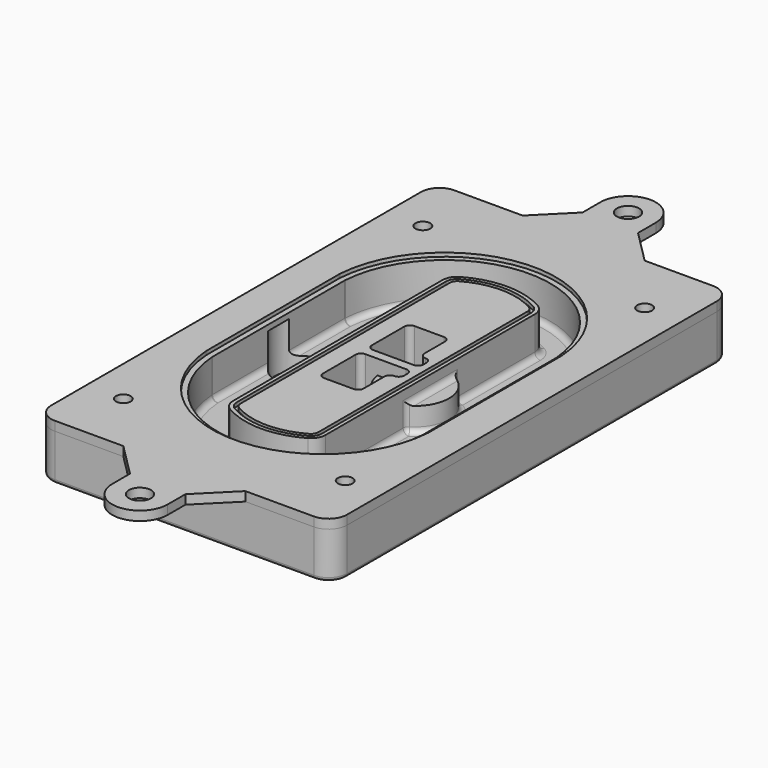
from build123d import *

# Parameters (mm, degrees)
F0_R      = 4
F1_DEPTH  = 25
F2_DEPTH  = 3
F3_DEPTH  = 18
F5_DEPTH  = 21
F6_DEPTH  = 2
F8_DEPTH  = 20
F9_DEPTH  = 16
F10_DEPTH = 25
F7_R      = 6
F7_R_2    = 4
F11_DEPTH = 6
F13_DEPTH = 9
F14_R     = 3
F15_R     = 2
F16_R     = 4
F16_R_2   = 6
F17_DEPTH = 5


with BuildPart() as f1:
    # F0 (on Top) → F1 (new body)
    with BuildSketch(Plane.XY):
        with BuildLine():
            ThreePointArc((-80, -125), (-77.0710678119, -132.0710678119), (-70, -135))
            Line((-70, -135), (70, -135))
            ThreePointArc((70, -135), (77.0710678119, -132.0710678119), (80, -125))
            Line((80, -125), (80, 125))
            ThreePointArc((80, 125), (77.0710678119, 132.0710678119), (70, 135))
            Line((70, 135), (-70, 135))
            ThreePointArc((-70, 135), (-77.0710678119, 132.0710678119), (-80, 125))
            Line((-80, 125), (-80, -125))
        make_face()
        with Locations((-60, -101.25)):
            Circle(F0_R, mode=Mode.SUBTRACT)
        with Locations((60, -101.25)):
            Circle(F0_R, mode=Mode.SUBTRACT)
        with Locations((-60, 101.25)):
            Circle(F0_R, mode=Mode.SUBTRACT)
        with BuildLine():
            ThreePointArc((-64, 44.6627429245), (-63.991269098, 45.1571001106), (-63.9650872818, 45.650840699))
            ThreePointArc((-63.9650872818, 45.650840699), (0, 105.25), (63.9650872818, 45.650840699))
            ThreePointArc((63.9650872818, 45.650840699), (63.991269098, 45.1571001106), (64, 44.6627429245))
            Line((64, 44.6627429245), (64, -44.6627429245))
            ThreePointArc((64, -44.6627429245), (63.991269098, -45.1571001106), (63.9650872818, -45.650840699))
            ThreePointArc((63.9650872818, -45.650840699), (0, -105.25), (-63.9650872818, -45.650840699))
            ThreePointArc((-63.9650872818, -45.650840699), (-63.991269098, -45.1571001106), (-64, -44.6627429245))
            Line((-64, -44.6627429245), (-64, 44.6627429245))
        make_face(mode=Mode.SUBTRACT)
        with Locations((60, 101.25)):
            Circle(F0_R, mode=Mode.SUBTRACT)
        with BuildLine():
            ThreePointArc((63.9650872818, 45.650840699), (0, 105.25), (-63.9650872818, 45.650840699))
            ThreePointArc((-63.9650872818, 45.650840699), (-63.991269098, 45.1571001106), (-64, 44.6627429245))
            Line((-64, 44.6627429245), (-64, -44.6627429245))
            ThreePointArc((-64, -44.6627429245), (-63.991269098, -45.1571001106), (-63.9650872818, -45.650840699))
            ThreePointArc((-63.9650872818, -45.650840699), (0, -105.25), (63.9650872818, -45.650840699))
            ThreePointArc((63.9650872818, -45.650840699), (63.991269098, -45.1571001106), (64, -44.6627429245))
            Line((64, -44.6627429245), (64, 44.6627429245))
            ThreePointArc((64, 44.6627429245), (63.991269098, 45.1571001106), (63.9650872818, 45.650840699))
        make_face()
        with BuildLine():
            Line((-60, -44.6627429245), (-60, 44.6627429245))
            ThreePointArc((-60, 44.6627429245), (-59.9937636414, 45.0158552003), (-59.9750623441, 45.3685270491))
            ThreePointArc((-59.9750623441, 45.3685270491), (0, 101.25), (59.9750623441, 45.3685270491))
            ThreePointArc((59.9750623441, 45.3685270491), (59.9937636414, 45.0158552003), (60, 44.6627429245))
            Line((60, 44.6627429245), (60, -44.6627429245))
            ThreePointArc((60, -44.6627429245), (59.9937636414, -45.0158552003), (59.9750623441, -45.3685270491))
            ThreePointArc((59.9750623441, -45.3685270491), (0, -101.25), (-59.9750623441, -45.3685270491))
            ThreePointArc((-59.9750623441, -45.3685270491), (-59.9937636414, -45.0158552003), (-60, -44.6627429245))
        make_face(mode=Mode.SUBTRACT)
        with BuildLine():
            ThreePointArc((-59.9750623441, 45.3685270491), (-59.9937636414, 45.0158552003), (-60, 44.6627429245))
            Line((-60, 44.6627429245), (-60, -44.6627429245))
            ThreePointArc((-60, -44.6627429245), (-59.9937636414, -45.0158552003), (-59.9750623441, -45.3685270491))
            ThreePointArc((-59.9750623441, -45.3685270491), (0, -101.25), (59.9750623441, -45.3685270491))
            ThreePointArc((59.9750623441, -45.3685270491), (59.9937636414, -45.0158552003), (60, -44.6627429245))
            Line((60, -44.6627429245), (60, 44.6627429245))
            ThreePointArc((60, 44.6627429245), (59.9937636414, 45.0158552003), (59.9750623441, 45.3685270491))
            ThreePointArc((59.9750623441, 45.3685270491), (0, 101.25), (-59.9750623441, 45.3685270491))
        make_face()
        with BuildLine():
            ThreePointArc((56.9825436409, 45.1567918117), (56.995634549, 44.9099215176), (57, 44.6627429245))
            Line((57, 44.6627429245), (57, -44.6627429245))
            ThreePointArc((57, -44.6627429245), (56.995634549, -44.9099215176), (56.9825436409, -45.1567918117))
            ThreePointArc((56.9825436409, -45.1567918117), (0, -98.25), (-56.9825436409, -45.1567918117))
            ThreePointArc((-56.9825436409, -45.1567918117), (-56.995634549, -44.9099215176), (-57, -44.6627429245))
            Line((-57, -44.6627429245), (-57, 44.6627429245))
            ThreePointArc((-57, 44.6627429245), (-56.995634549, 44.9099215176), (-56.9825436409, 45.1567918117))
            ThreePointArc((-56.9825436409, 45.1567918117), (0, 98.25), (56.9825436409, 45.1567918117))
        make_face(mode=Mode.SUBTRACT)
        with BuildLine():
            Line((57, -44.6627429245), (57, 44.6627429245))
            ThreePointArc((57, 44.6627429245), (56.995634549, 44.9099215176), (56.9825436409, 45.1567918117))
            ThreePointArc((56.9825436409, 45.1567918117), (0, 98.25), (-56.9825436409, 45.1567918117))
            ThreePointArc((-56.9825436409, 45.1567918117), (-56.995634549, 44.9099215176), (-57, 44.6627429245))
            Line((-57, 44.6627429245), (-57, -44.6627429245))
            ThreePointArc((-57, -44.6627429245), (-56.995634549, -44.9099215176), (-56.9825436409, -45.1567918117))
            ThreePointArc((-56.9825436409, -45.1567918117), (0, -98.25), (56.9825436409, -45.1567918117))
            ThreePointArc((56.9825436409, -45.1567918117), (56.995634549, -44.9099215176), (57, -44.6627429245))
        make_face()
    extrude(amount=-F1_DEPTH)

    # F0 (on Top) → F2 (join)
    with BuildSketch(Plane.XY):
        with BuildLine():
            ThreePointArc((-59.9750623441, 45.3685270491), (-59.9937636414, 45.0158552003), (-60, 44.6627429245))
            Line((-60, 44.6627429245), (-60, -44.6627429245))
            ThreePointArc((-60, -44.6627429245), (-59.9937636414, -45.0158552003), (-59.9750623441, -45.3685270491))
            ThreePointArc((-59.9750623441, -45.3685270491), (0, -101.25), (59.9750623441, -45.3685270491))
            ThreePointArc((59.9750623441, -45.3685270491), (59.9937636414, -45.0158552003), (60, -44.6627429245))
            Line((60, -44.6627429245), (60, 44.6627429245))
            ThreePointArc((60, 44.6627429245), (59.9937636414, 45.0158552003), (59.9750623441, 45.3685270491))
            ThreePointArc((59.9750623441, 45.3685270491), (0, 101.25), (-59.9750623441, 45.3685270491))
        make_face()
        with BuildLine():
            ThreePointArc((56.9825436409, 45.1567918117), (56.995634549, 44.9099215176), (57, 44.6627429245))
            Line((57, 44.6627429245), (57, -44.6627429245))
            ThreePointArc((57, -44.6627429245), (56.995634549, -44.9099215176), (56.9825436409, -45.1567918117))
            ThreePointArc((56.9825436409, -45.1567918117), (0, -98.25), (-56.9825436409, -45.1567918117))
            ThreePointArc((-56.9825436409, -45.1567918117), (-56.995634549, -44.9099215176), (-57, -44.6627429245))
            Line((-57, -44.6627429245), (-57, 44.6627429245))
            ThreePointArc((-57, 44.6627429245), (-56.995634549, 44.9099215176), (-56.9825436409, 45.1567918117))
            ThreePointArc((-56.9825436409, 45.1567918117), (0, 98.25), (56.9825436409, 45.1567918117))
        make_face(mode=Mode.SUBTRACT)
    extrude(amount=F2_DEPTH)

    # F0 (on Top) → F3 (cut)
    with BuildSketch(Plane.XY):
        with BuildLine():
            Line((57, -44.6627429245), (57, 44.6627429245))
            ThreePointArc((57, 44.6627429245), (56.995634549, 44.9099215176), (56.9825436409, 45.1567918117))
            ThreePointArc((56.9825436409, 45.1567918117), (0, 98.25), (-56.9825436409, 45.1567918117))
            ThreePointArc((-56.9825436409, 45.1567918117), (-56.995634549, 44.9099215176), (-57, 44.6627429245))
            Line((-57, 44.6627429245), (-57, -44.6627429245))
            ThreePointArc((-57, -44.6627429245), (-56.995634549, -44.9099215176), (-56.9825436409, -45.1567918117))
            ThreePointArc((-56.9825436409, -45.1567918117), (0, -98.25), (56.9825436409, -45.1567918117))
            ThreePointArc((56.9825436409, -45.1567918117), (56.995634549, -44.9099215176), (57, -44.6627429245))
        make_face()
    extrude(amount=-F3_DEPTH, mode=Mode.SUBTRACT)

    # F4 (on face) → F5 (join, through all)
    with BuildSketch(Plane.XY.offset(3)):
        with BuildLine():
            ThreePointArc((-25, -70.7141132851), (-23.9239722661, -74.7214325959), (-20.9853479853, -77.6507552274))
            ThreePointArc((-20.9853479853, -77.6507552274), (0, -83.25), (20.9853479853, -77.6507552274))
            ThreePointArc((20.9853479853, -77.6507552274), (23.9239722661, -74.7214325959), (25, -70.7141132851))
            Line((25, -70.7141132851), (25, 70.7141132851))
            ThreePointArc((25, 70.7141132851), (23.9239722661, 74.7214325959), (20.9853479853, 77.6507552274))
            ThreePointArc((20.9853479853, 77.6507552274), (0, 83.25), (-20.9853479853, 77.6507552274))
            ThreePointArc((-20.9853479853, 77.6507552274), (-23.9239722661, 74.7214325959), (-25, 70.7141132851))
            Line((-25, 70.7141132851), (-25, -70.7141132851))
        make_face()
        with BuildLine():
            ThreePointArc((19.989010989, 75.9165947419), (22.1929791996, 73.7196027682), (23, 70.7141132851))
            Line((23, 70.7141132851), (23, -70.7141132851))
            ThreePointArc((23, -70.7141132851), (22.1929791996, -73.7196027682), (19.989010989, -75.9165947419))
            ThreePointArc((19.989010989, -75.9165947419), (0, -81.25), (-19.989010989, -75.9165947419))
            ThreePointArc((-19.989010989, -75.9165947419), (-22.1929791996, -73.7196027682), (-23, -70.7141132851))
            Line((-23, -70.7141132851), (-23, 70.7141132851))
            ThreePointArc((-23, 70.7141132851), (-22.1929791996, 73.7196027682), (-19.989010989, 75.9165947419))
            ThreePointArc((-19.989010989, 75.9165947419), (0, 81.25), (19.989010989, 75.9165947419))
        make_face(mode=Mode.SUBTRACT)
        with BuildLine():
            Line((23, -70.7141132851), (23, 70.7141132851))
            ThreePointArc((23, 70.7141132851), (22.1929791996, 73.7196027682), (19.989010989, 75.9165947419))
            ThreePointArc((19.989010989, 75.9165947419), (0, 81.25), (-19.989010989, 75.9165947419))
            ThreePointArc((-19.989010989, 75.9165947419), (-22.1929791996, 73.7196027682), (-23, 70.7141132851))
            Line((-23, 70.7141132851), (-23, -70.7141132851))
            ThreePointArc((-23, -70.7141132851), (-22.1929791996, -73.7196027682), (-19.989010989, -75.9165947419))
            ThreePointArc((-19.989010989, -75.9165947419), (0, -81.25), (19.989010989, -75.9165947419))
            ThreePointArc((19.989010989, -75.9165947419), (22.1929791996, -73.7196027682), (23, -70.7141132851))
        make_face()
        with BuildLine():
            ThreePointArc((18.9926739927, 74.1824342563), (20.461986133, 72.7177729405), (21, 70.7141132851))
            Line((21, 70.7141132851), (21, -70.7141132851))
            ThreePointArc((21, -70.7141132851), (20.461986133, -72.7177729405), (18.9926739927, -74.1824342563))
            ThreePointArc((18.9926739927, -74.1824342563), (0, -79.25), (-18.9926739927, -74.1824342563))
            ThreePointArc((-18.9926739927, -74.1824342563), (-20.461986133, -72.7177729405), (-21, -70.7141132851))
            Line((-21, -70.7141132851), (-21, 70.7141132851))
            ThreePointArc((-21, 70.7141132851), (-20.461986133, 72.7177729405), (-18.9926739927, 74.1824342563))
            ThreePointArc((-18.9926739927, 74.1824342563), (0, 79.25), (18.9926739927, 74.1824342563))
        make_face(mode=Mode.SUBTRACT)
        with BuildLine():
            Line((21, -70.7141132851), (21, 70.7141132851))
            ThreePointArc((21, 70.7141132851), (20.461986133, 72.7177729405), (18.9926739927, 74.1824342563))
            ThreePointArc((18.9926739927, 74.1824342563), (0, 79.25), (-18.9926739927, 74.1824342563))
            ThreePointArc((-18.9926739927, 74.1824342563), (-20.461986133, 72.7177729405), (-21, 70.7141132851))
            Line((-21, 70.7141132851), (-21, -70.7141132851))
            ThreePointArc((-21, -70.7141132851), (-20.461986133, -72.7177729405), (-18.9926739927, -74.1824342563))
            ThreePointArc((-18.9926739927, -74.1824342563), (0, -79.25), (18.9926739927, -74.1824342563))
            ThreePointArc((18.9926739927, -74.1824342563), (20.461986133, -72.7177729405), (21, -70.7141132851))
        make_face()
        with BuildLine():
            Line((-8, -2.5), (14, -2.5))
            ThreePointArc((14, -2.5), (16.1213203436, -3.3786796564), (17, -5.5))
            Line((17, -5.5), (17, -7.5))
            ThreePointArc((17, -7.5), (16.1213203436, -9.6213203436), (14, -10.5))
            ThreePointArc((14, -10.5), (11.8786796564, -11.3786796564), (11, -13.5))
            Line((11, -13.5), (11, -27.5))
            ThreePointArc((11, -27.5), (10.1213203436, -29.6213203436), (8, -30.5))
            Line((8, -30.5), (-8, -30.5))
            ThreePointArc((-8, -30.5), (-10.1213203436, -29.6213203436), (-11, -27.5))
            Line((-11, -27.5), (-11, -5.5))
            ThreePointArc((-11, -5.5), (-10.1213203436, -3.3786796564), (-8, -2.5))
        make_face(mode=Mode.SUBTRACT)
        with BuildLine():
            ThreePointArc((-8, 2.5), (-10.1213203436, 3.3786796564), (-11, 5.5))
            Line((-11, 5.5), (-11, 27.5))
            ThreePointArc((-11, 27.5), (-10.1213203436, 29.6213203436), (-8, 30.5))
            Line((-8, 30.5), (8, 30.5))
            ThreePointArc((8, 30.5), (10.1213203436, 29.6213203436), (11, 27.5))
            Line((11, 27.5), (11, 13.5))
            ThreePointArc((11, 13.5), (11.8786796564, 11.3786796564), (14, 10.5))
            ThreePointArc((14, 10.5), (16.1213203436, 9.6213203436), (17, 7.5))
            Line((17, 7.5), (17, 5.5))
            ThreePointArc((17, 5.5), (16.1213203436, 3.3786796564), (14, 2.5))
            Line((14, 2.5), (-8, 2.5))
        make_face(mode=Mode.SUBTRACT)
    extrude(amount=-F5_DEPTH)

    # F4 (on face) → F6 (cut)
    with BuildSketch(Plane.XY.offset(3)):
        with BuildLine():
            Line((23, -70.7141132851), (23, 70.7141132851))
            ThreePointArc((23, 70.7141132851), (22.1929791996, 73.7196027682), (19.989010989, 75.9165947419))
            ThreePointArc((19.989010989, 75.9165947419), (0, 81.25), (-19.989010989, 75.9165947419))
            ThreePointArc((-19.989010989, 75.9165947419), (-22.1929791996, 73.7196027682), (-23, 70.7141132851))
            Line((-23, 70.7141132851), (-23, -70.7141132851))
            ThreePointArc((-23, -70.7141132851), (-22.1929791996, -73.7196027682), (-19.989010989, -75.9165947419))
            ThreePointArc((-19.989010989, -75.9165947419), (0, -81.25), (19.989010989, -75.9165947419))
            ThreePointArc((19.989010989, -75.9165947419), (22.1929791996, -73.7196027682), (23, -70.7141132851))
        make_face()
        with BuildLine():
            ThreePointArc((18.9926739927, 74.1824342563), (20.461986133, 72.7177729405), (21, 70.7141132851))
            Line((21, 70.7141132851), (21, -70.7141132851))
            ThreePointArc((21, -70.7141132851), (20.461986133, -72.7177729405), (18.9926739927, -74.1824342563))
            ThreePointArc((18.9926739927, -74.1824342563), (0, -79.25), (-18.9926739927, -74.1824342563))
            ThreePointArc((-18.9926739927, -74.1824342563), (-20.461986133, -72.7177729405), (-21, -70.7141132851))
            Line((-21, -70.7141132851), (-21, 70.7141132851))
            ThreePointArc((-21, 70.7141132851), (-20.461986133, 72.7177729405), (-18.9926739927, 74.1824342563))
            ThreePointArc((-18.9926739927, 74.1824342563), (0, 79.25), (18.9926739927, 74.1824342563))
        make_face(mode=Mode.SUBTRACT)
    extrude(amount=-F6_DEPTH, mode=Mode.SUBTRACT)

    # F7 (on face) → F8 (join)
    with BuildSketch(Plane(origin=(0, 0, -25), x_dir=(1, 0, 0), z_dir=(0, 0, -1))):
        with BuildLine():
            ThreePointArc((3.28842436, 0), (16.7567035675, 13.4682792075), (30.224982775, 0))
            Line((30.224982775, 0), (35.224982775, 0))
            ThreePointArc((35.224982775, 0), (16.7567035675, 18.4682792075), (-1.71157564, 0))
            Line((-1.71157564, 0), (3.28842436, 0))
        make_face()
        with BuildLine():
            Line((3.28842436, 0), (30.224982775, 0))
            ThreePointArc((30.224982775, 0), (16.7567035675, 13.4682792075), (3.28842436, 0))
        make_face()
        with BuildLine():
            ThreePointArc((3.28842436, 0), (16.7567035675, -13.4682792075), (30.224982775, 0))
            Line((30.224982775, 0), (3.28842436, 0))
        make_face()
        with BuildLine():
            Line((35.224982775, 0), (30.224982775, 0))
            ThreePointArc((30.224982775, 0), (16.7567035675, -13.4682792075), (3.28842436, 0))
            Line((3.28842436, 0), (-1.71157564, 0))
            ThreePointArc((-1.71157564, 0), (16.7567035675, -18.4682792075), (35.224982775, 0))
        make_face()
    extrude(amount=-F8_DEPTH)

    # F7 (on face) → F9 (cut)
    with BuildSketch(Plane(origin=(0, 0, -25), x_dir=(1, 0, 0), z_dir=(0, 0, -1))):
        with BuildLine():
            Line((3.28842436, 0), (30.224982775, 0))
            ThreePointArc((30.224982775, 0), (16.7567035675, 13.4682792075), (3.28842436, 0))
        make_face()
        with BuildLine():
            ThreePointArc((3.28842436, 0), (16.7567035675, -13.4682792075), (30.224982775, 0))
            Line((30.224982775, 0), (3.28842436, 0))
        make_face()
    extrude(amount=-F9_DEPTH, mode=Mode.SUBTRACT)

    # F7 (on face) → F10 (cut)
    with BuildSketch(Plane(origin=(0, 0, -25), x_dir=(1, 0, 0), z_dir=(0, 0, -1))):
        with BuildLine():
            Line((-59.0318229325, 0), (-32.0952645175, 0))
            ThreePointArc((-32.0952645175, 0), (-45.563543725, 13.4682792075), (-59.0318229325, 0))
        make_face()
        with BuildLine():
            ThreePointArc((-59.0318229325, 0), (-45.563543725, -13.4682792075), (-32.0952645175, 0))
            Line((-32.0952645175, 0), (-59.0318229325, 0))
        make_face()
    extrude(amount=-F10_DEPTH, mode=Mode.SUBTRACT)

    # F7 (on face) → F11 (cut)
    with BuildSketch(Plane(origin=(0, 0, -25), x_dir=(1, 0, 0), z_dir=(0, 0, -1))):
        with Locations((60, -101.25)):
            Circle(F7_R)
        with Locations((60, -101.25)):
            Circle(F7_R_2, mode=Mode.SUBTRACT)
        with Locations((60, -101.25)):
            Circle(F7_R)
        with Locations((60, -101.25)):
            Circle(F7_R_2, mode=Mode.SUBTRACT)
        with Locations((-60, -101.25)):
            Circle(F7_R)
        with Locations((-60, -101.25)):
            Circle(F7_R_2, mode=Mode.SUBTRACT)
        with Locations((-60, -101.25)):
            Circle(F7_R)
        with Locations((-60, -101.25)):
            Circle(F7_R_2, mode=Mode.SUBTRACT)
        with Locations((-60, 101.25)):
            Circle(F7_R)
        with Locations((-60, 101.25)):
            Circle(F7_R_2, mode=Mode.SUBTRACT)
        with Locations((-60, 101.25)):
            Circle(F7_R)
        with Locations((-60, 101.25)):
            Circle(F7_R_2, mode=Mode.SUBTRACT)
        with Locations((60, 101.25)):
            Circle(F7_R)
        with Locations((60, 101.25)):
            Circle(F7_R_2, mode=Mode.SUBTRACT)
        with Locations((60, 101.25)):
            Circle(F7_R)
        with Locations((60, 101.25)):
            Circle(F7_R_2, mode=Mode.SUBTRACT)
    extrude(amount=-F11_DEPTH, mode=Mode.SUBTRACT)

    # F12 (on face) → F13 (cut, through all)
    with BuildSketch(Plane(origin=(0, 0, -9), x_dir=(1, 0, 0), z_dir=(0, 0, -1))):
        with BuildLine():
            Line((11, 13.5), (11, 17.5481537753))
            ThreePointArc((11, 17.5481537753), (2.5696536419, 11.8239143813), (-1.5415842455, 2.5))
            Line((-1.5415842455, 2.5), (3.5224848595, 2.5))
            ThreePointArc((3.5224848595, 2.5), (6.1857188154, 8.3455872281), (11.2536447004, 12.2927168648))
            ThreePointArc((11.2536447004, 12.2927168648), (11.0640958889, 12.8831798879), (11, 13.5))
        make_face()
        with BuildLine():
            ThreePointArc((11.2536447004, -12.2927168648), (6.1857188154, -8.3455872281), (3.5224848595, -2.5))
            Line((3.5224848595, -2.5), (-1.5415842455, -2.5))
            ThreePointArc((-1.5415842455, -2.5), (2.5696536419, -11.8239143813), (11, -17.5481537753))
            Line((11, -17.5481537753), (11, -13.5))
            ThreePointArc((11, -13.5), (11.0640958889, -12.8831798879), (11.2536447004, -12.2927168648))
        make_face()
        with BuildLine():
            ThreePointArc((11.2536447004, 12.2927168648), (6.1857188154, 8.3455872281), (3.5224848595, 2.5))
            Line((3.5224848595, 2.5), (14, 2.5))
            ThreePointArc((14, 2.5), (16.1213203436, 3.3786796564), (17, 5.5))
            Line((17, 5.5), (17, 7.5))
            ThreePointArc((17, 7.5), (16.1213203436, 9.6213203436), (14, 10.5))
            ThreePointArc((14, 10.5), (12.3601599782, 10.9878446101), (11.2536447004, 12.2927168648))
        make_face()
        with BuildLine():
            Line((14, -2.5), (3.5224848595, -2.5))
            ThreePointArc((3.5224848595, -2.5), (6.1857188154, -8.3455872281), (11.2536447004, -12.2927168648))
            ThreePointArc((11.2536447004, -12.2927168648), (12.3601599782, -10.9878446101), (14, -10.5))
            ThreePointArc((14, -10.5), (16.1213203436, -9.6213203436), (17, -7.5))
            Line((17, -7.5), (17, -5.5))
            ThreePointArc((17, -5.5), (16.1213203436, -3.3786796564), (14, -2.5))
        make_face()
    extrude(amount=F13_DEPTH, mode=Mode.SUBTRACT)

    # F14
    f14_edges = [f1.edges().sort_by_distance(p)[0] for p in [
        (-57, -25.888126, -18),
        (-57, 25.888126, -18),
        (25, 0, -5),
        (25, 16.526506, -11.5),
        (25, -16.526506, -11.5),
        (25, -43.62031, -18),
        (35.224983, 0, -18),
    ]]
    fillet(f14_edges, radius=F14_R)

    # F15
    f15_edges = [f1.edges().sort_by_distance(p)[0] for p in [
        (0, -135, -25),
    ]]
    fillet(f15_edges, radius=F15_R)


with BuildPart() as f17:
    # F16 (on face) → F17 (new body)
    with BuildSketch(Plane.XY):
        with BuildLine():
            Line((-33, 135), (-70, 135))
            ThreePointArc((-70, 135), (-77.0710678119, 132.0710678119), (-80, 125))
            Line((-80, 125), (-80, -125))
            ThreePointArc((-80, -125), (-77.0710678119, -132.0710678119), (-70, -135))
            Line((-70, -135), (-33, -135))
            Line((-33, -135), (33, -135))
            Line((33, -135), (70, -135))
            ThreePointArc((70, -135), (77.0710678119, -132.0710678119), (80, -125))
            Line((80, -125), (80, 125))
            ThreePointArc((80, 125), (77.0710678119, 132.0710678119), (70, 135))
            Line((70, 135), (33, 135))
            Line((33, 135), (-33, 135))
        make_face()
        with Locations((-60, -101.25)):
            Circle(F16_R, mode=Mode.SUBTRACT)
        with Locations((-60, 101.25)):
            Circle(F16_R, mode=Mode.SUBTRACT)
        with BuildLine():
            ThreePointArc((-60, 44.6627429245), (-59.9937636414, 45.0158552003), (-59.9750623441, 45.3685270491))
            ThreePointArc((-59.9750623441, 45.3685270491), (0, 101.25), (59.9750623441, 45.3685270491))
            ThreePointArc((59.9750623441, 45.3685270491), (59.9937636414, 45.0158552003), (60, 44.6627429245))
            Line((60, 44.6627429245), (60, -44.6627429245))
            ThreePointArc((60, -44.6627429245), (59.9937636414, -45.0158552003), (59.9750623441, -45.3685270491))
            ThreePointArc((59.9750623441, -45.3685270491), (0, -101.25), (-59.9750623441, -45.3685270491))
            ThreePointArc((-59.9750623441, -45.3685270491), (-59.9937636414, -45.0158552003), (-60, -44.6627429245))
            Line((-60, -44.6627429245), (-60, 44.6627429245))
        make_face(mode=Mode.SUBTRACT)
        with Locations((60, -101.25)):
            Circle(F16_R, mode=Mode.SUBTRACT)
        with Locations((60, 101.25)):
            Circle(F16_R, mode=Mode.SUBTRACT)
        with BuildLine():
            Line((-15, 153), (-33, 135))
            Line((-33, 135), (33, 135))
            Line((33, 135), (15, 153))
            Line((15, 153), (15, 165))
            ThreePointArc((15, 165), (0, 180), (-15, 165))
            Line((-15, 165), (-15, 153))
        make_face()
        with Locations((0, 165)):
            Circle(F16_R_2, mode=Mode.SUBTRACT)
        with BuildLine():
            Line((33, -135), (-33, -135))
            Line((-33, -135), (-15, -153))
            Line((-15, -153), (-15, -165))
            ThreePointArc((-15, -165), (0, -180), (15, -165))
            Line((15, -165), (15, -153))
            Line((15, -153), (33, -135))
        make_face()
        with Locations((0, -165)):
            Circle(F16_R_2, mode=Mode.SUBTRACT)
    extrude(amount=F17_DEPTH)


solid = Compound([f1.part, f17.part])
